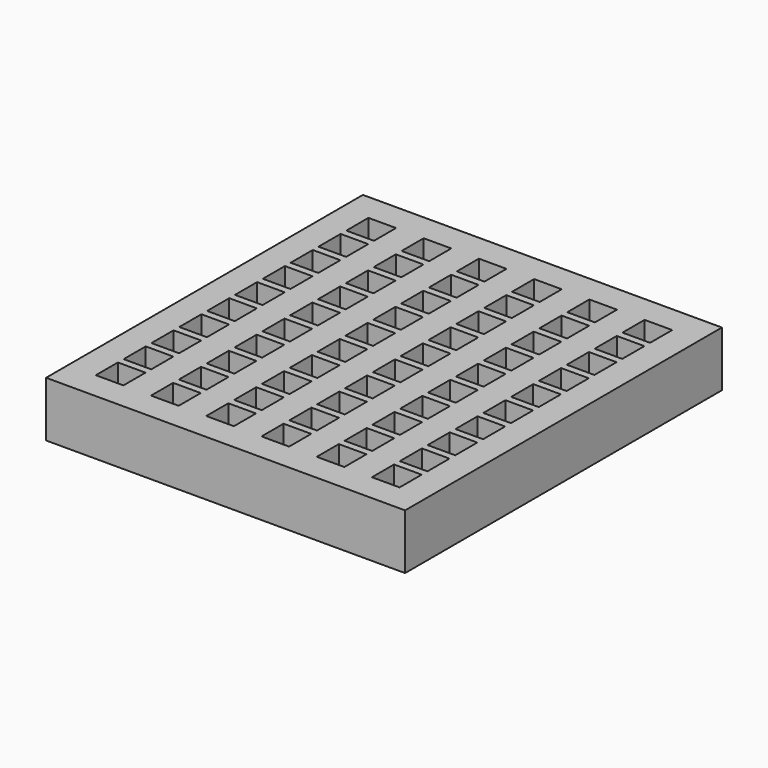
from build123d import *

# Parameters (mm, degrees)
F0_W     = 65
F0_H     = 71.7
F0_W_2   = 5
F0_H_2   = 5
F1_DEPTH = 10


with BuildPart() as f1:
    # F0 (on Top) → F1 (new body)
    with BuildSketch(Plane.XY):
        with Locations((27.5, 30.85)):
            Rectangle(F0_W, F0_H)
        with Locations((2.5, 2.5)):
            Rectangle(F0_W_2, F0_H_2, mode=Mode.SUBTRACT)
        with Locations((2.5, 8.8)):
            Rectangle(F0_W_2, F0_H_2, mode=Mode.SUBTRACT)
        with Locations((12.5, 2.5)):
            Rectangle(F0_W_2, F0_H_2, mode=Mode.SUBTRACT)
        with Locations((22.5, 2.5)):
            Rectangle(F0_W_2, F0_H_2, mode=Mode.SUBTRACT)
        with Locations((12.5, 8.8)):
            Rectangle(F0_W_2, F0_H_2, mode=Mode.SUBTRACT)
        with Locations((22.5, 8.8)):
            Rectangle(F0_W_2, F0_H_2, mode=Mode.SUBTRACT)
        with Locations((2.5, 15.1)):
            Rectangle(F0_W_2, F0_H_2, mode=Mode.SUBTRACT)
        with Locations((2.5, 21.4)):
            Rectangle(F0_W_2, F0_H_2, mode=Mode.SUBTRACT)
        with Locations((2.5, 27.7)):
            Rectangle(F0_W_2, F0_H_2, mode=Mode.SUBTRACT)
        with Locations((12.5, 15.1)):
            Rectangle(F0_W_2, F0_H_2, mode=Mode.SUBTRACT)
        with Locations((12.5, 21.4)):
            Rectangle(F0_W_2, F0_H_2, mode=Mode.SUBTRACT)
        with Locations((22.5, 15.1)):
            Rectangle(F0_W_2, F0_H_2, mode=Mode.SUBTRACT)
        with Locations((22.5, 21.4)):
            Rectangle(F0_W_2, F0_H_2, mode=Mode.SUBTRACT)
        with Locations((12.5, 27.7)):
            Rectangle(F0_W_2, F0_H_2, mode=Mode.SUBTRACT)
        with Locations((22.5, 27.7)):
            Rectangle(F0_W_2, F0_H_2, mode=Mode.SUBTRACT)
        with Locations((32.5, 2.5)):
            Rectangle(F0_W_2, F0_H_2, mode=Mode.SUBTRACT)
        with Locations((42.5, 2.5)):
            Rectangle(F0_W_2, F0_H_2, mode=Mode.SUBTRACT)
        with Locations((32.5, 8.8)):
            Rectangle(F0_W_2, F0_H_2, mode=Mode.SUBTRACT)
        with Locations((42.5, 8.8)):
            Rectangle(F0_W_2, F0_H_2, mode=Mode.SUBTRACT)
        with Locations((52.5, 2.5)):
            Rectangle(F0_W_2, F0_H_2, mode=Mode.SUBTRACT)
        with Locations((52.5, 8.8)):
            Rectangle(F0_W_2, F0_H_2, mode=Mode.SUBTRACT)
        with Locations((32.5, 15.1)):
            Rectangle(F0_W_2, F0_H_2, mode=Mode.SUBTRACT)
        with Locations((32.5, 21.4)):
            Rectangle(F0_W_2, F0_H_2, mode=Mode.SUBTRACT)
        with Locations((42.5, 15.1)):
            Rectangle(F0_W_2, F0_H_2, mode=Mode.SUBTRACT)
        with Locations((42.5, 21.4)):
            Rectangle(F0_W_2, F0_H_2, mode=Mode.SUBTRACT)
        with Locations((32.5, 27.7)):
            Rectangle(F0_W_2, F0_H_2, mode=Mode.SUBTRACT)
        with Locations((42.5, 27.7)):
            Rectangle(F0_W_2, F0_H_2, mode=Mode.SUBTRACT)
        with Locations((52.5, 15.1)):
            Rectangle(F0_W_2, F0_H_2, mode=Mode.SUBTRACT)
        with Locations((52.5, 21.4)):
            Rectangle(F0_W_2, F0_H_2, mode=Mode.SUBTRACT)
        with Locations((52.5, 27.7)):
            Rectangle(F0_W_2, F0_H_2, mode=Mode.SUBTRACT)
        with Locations((2.5, 34)):
            Rectangle(F0_W_2, F0_H_2, mode=Mode.SUBTRACT)
        with Locations((2.5, 40.3)):
            Rectangle(F0_W_2, F0_H_2, mode=Mode.SUBTRACT)
        with Locations((2.5, 46.6)):
            Rectangle(F0_W_2, F0_H_2, mode=Mode.SUBTRACT)
        with Locations((12.5, 34)):
            Rectangle(F0_W_2, F0_H_2, mode=Mode.SUBTRACT)
        with Locations((22.5, 34)):
            Rectangle(F0_W_2, F0_H_2, mode=Mode.SUBTRACT)
        with Locations((12.5, 40.3)):
            Rectangle(F0_W_2, F0_H_2, mode=Mode.SUBTRACT)
        with Locations((12.5, 46.6)):
            Rectangle(F0_W_2, F0_H_2, mode=Mode.SUBTRACT)
        with Locations((22.5, 40.3)):
            Rectangle(F0_W_2, F0_H_2, mode=Mode.SUBTRACT)
        with Locations((22.5, 46.6)):
            Rectangle(F0_W_2, F0_H_2, mode=Mode.SUBTRACT)
        with Locations((2.5, 52.9)):
            Rectangle(F0_W_2, F0_H_2, mode=Mode.SUBTRACT)
        with Locations((2.5, 59.2)):
            Rectangle(F0_W_2, F0_H_2, mode=Mode.SUBTRACT)
        with Locations((12.5, 52.9)):
            Rectangle(F0_W_2, F0_H_2, mode=Mode.SUBTRACT)
        with Locations((22.5, 52.9)):
            Rectangle(F0_W_2, F0_H_2, mode=Mode.SUBTRACT)
        with Locations((12.5, 59.2)):
            Rectangle(F0_W_2, F0_H_2, mode=Mode.SUBTRACT)
        with Locations((22.5, 59.2)):
            Rectangle(F0_W_2, F0_H_2, mode=Mode.SUBTRACT)
        with Locations((32.5, 34)):
            Rectangle(F0_W_2, F0_H_2, mode=Mode.SUBTRACT)
        with Locations((42.5, 34)):
            Rectangle(F0_W_2, F0_H_2, mode=Mode.SUBTRACT)
        with Locations((32.5, 40.3)):
            Rectangle(F0_W_2, F0_H_2, mode=Mode.SUBTRACT)
        with Locations((32.5, 46.6)):
            Rectangle(F0_W_2, F0_H_2, mode=Mode.SUBTRACT)
        with Locations((42.5, 40.3)):
            Rectangle(F0_W_2, F0_H_2, mode=Mode.SUBTRACT)
        with Locations((42.5, 46.6)):
            Rectangle(F0_W_2, F0_H_2, mode=Mode.SUBTRACT)
        with Locations((52.5, 34)):
            Rectangle(F0_W_2, F0_H_2, mode=Mode.SUBTRACT)
        with Locations((52.5, 40.3)):
            Rectangle(F0_W_2, F0_H_2, mode=Mode.SUBTRACT)
        with Locations((52.5, 46.6)):
            Rectangle(F0_W_2, F0_H_2, mode=Mode.SUBTRACT)
        with Locations((32.5, 52.9)):
            Rectangle(F0_W_2, F0_H_2, mode=Mode.SUBTRACT)
        with Locations((42.5, 52.9)):
            Rectangle(F0_W_2, F0_H_2, mode=Mode.SUBTRACT)
        with Locations((32.5, 59.2)):
            Rectangle(F0_W_2, F0_H_2, mode=Mode.SUBTRACT)
        with Locations((42.5, 59.2)):
            Rectangle(F0_W_2, F0_H_2, mode=Mode.SUBTRACT)
        with Locations((52.5, 52.9)):
            Rectangle(F0_W_2, F0_H_2, mode=Mode.SUBTRACT)
        with Locations((52.5, 59.2)):
            Rectangle(F0_W_2, F0_H_2, mode=Mode.SUBTRACT)
    extrude(amount=F1_DEPTH)


solid = f1.part
